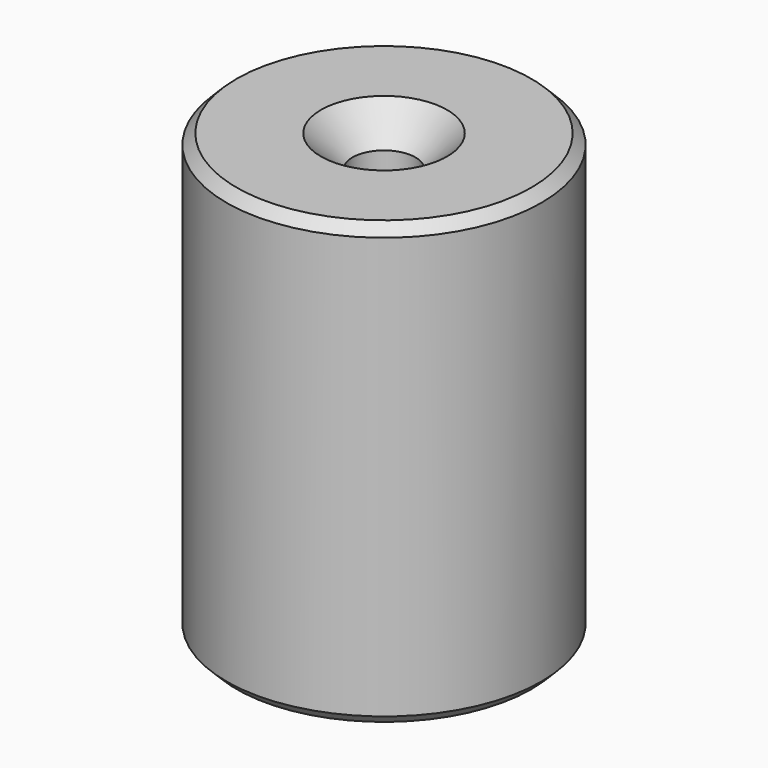
from build123d import *

# Parameters (mm, degrees)
F0_R           = 7.9248
F1_DEPTH       = 22.225
F3_D           = 3.175
F3_CSINK_D     = 6.35
F3_CSINK_ANGLE = 90
F4_R           = 6.35
F5_DEPTH       = 19.05
F6_SIZE        = 0.508
F7_SIZE        = 0.508


with BuildPart() as f1:
    # F0 (on Top) → F1 (new body)
    with BuildSketch(Plane.XY):
        Circle(F0_R)
    extrude(amount=-F1_DEPTH)

    # F3 (through all)
    with Locations(Plane.XY):
        with Locations((0, 0)):
            CounterSinkHole(F3_D / 2, F3_CSINK_D / 2, counter_sink_angle=F3_CSINK_ANGLE)

    # F4 (on face) → F5 (cut)
    with BuildSketch(Plane(origin=(0, 0, -22.225), x_dir=(1, 0, 0), z_dir=(0, 0, -1))):
        Circle(F4_R)
    extrude(amount=-F5_DEPTH, mode=Mode.SUBTRACT)

    # F6
    f6_edges = [f1.edges().sort_by_distance(p)[0] for p in [
        (-7.9248, 0, 0),
    ]]
    chamfer(f6_edges, length=F6_SIZE)

    # F7
    f7_edges = [f1.edges().sort_by_distance(p)[0] for p in [
        (-7.9248, 0, -22.225),
    ]]
    chamfer(f7_edges, length=F7_SIZE)


solid = f1.part
